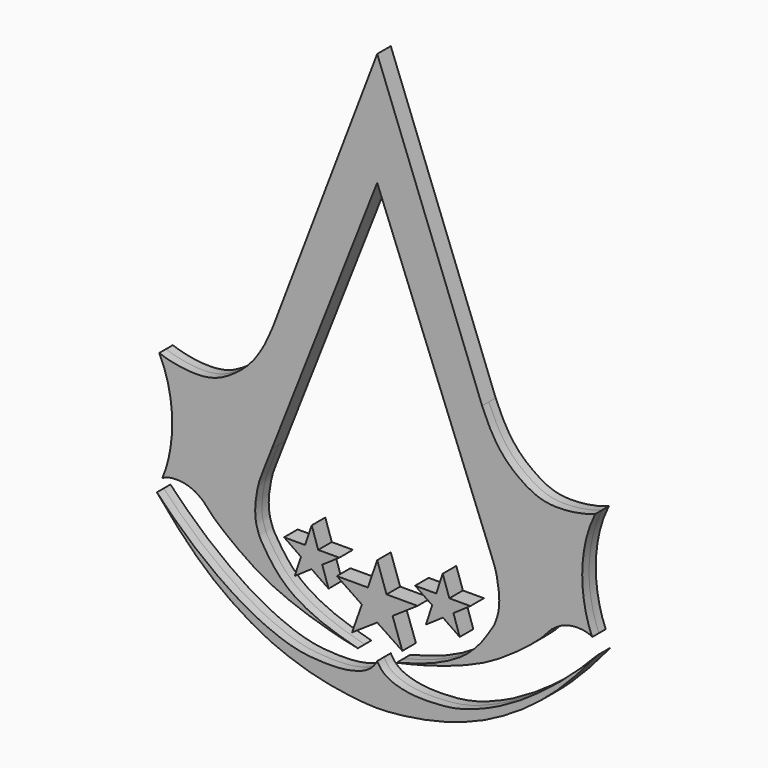
from build123d import *

# Parameters (mm, degrees)
F1_DEPTH = 3.175


with BuildPart() as f1:
    # F0 (on Front) → F1 (new body, symmetric)
    with BuildSketch(Plane.XZ):
        with BuildLine():
            Line((39.9687946774, -25.0338315964), (0.7381376345, 78.0851691961))
            Line((0.7381376345, 78.0851691961), (-38.4925194085, -25.0338315964))
            add(Edge.make_bspline(
                [(-38.4925194085, -25.0338315964), (-39.2622438136, -26.885693292), (-40.9775181091, -31.0140391363), (-46.1401856066, -39.3534698401), (-52.7725182932, -44.7632011156), (-60.2226886845, -49.2057896242), (-70.1957220918, -49.6474830663), (-77.698007226, -48.0404756963), (-80.7956382632, -46.8992441893)],
                knots=[0, 0, 0, 0, 0.1413466486, 0.3151299012, 0.4791434265, 0.6404274645, 0.8158665758, 1, 1, 1, 1], degree=3))
            add(Edge.make_bspline(
                [(-80.7956382632, -46.8992441893), (-77.9950395226, -52.5300353765), (-75.7914310275, -62.3368572194), (-75.8388918267, -74.7012366543), (-77.8207480907, -83.5148692131), (-79.6517729759, -87.7740681171)],
                knots=[0, 0, 0, 0, 0.3617583359, 0.6716647358, 1, 1, 1, 1], degree=3))
            add(Edge.make_bspline(
                [(-79.6517729759, -87.7740681171), (-78.1548172235, -86.7131128907), (-74.3145144485, -86.2863424344), (-71.1093442924, -86.6556991971), (-67.7305673247, -87.8539041816), (-66.4333637502, -88.6644110329), (-64.4124224782, -90.205706656)],
                knots=[0, 0, 0, 0, 0.2916973, 0.5200285197, 0.7365038379, 1, 1, 1, 1], degree=3))
            add(Edge.make_bspline(
                [(-64.4124224782, -90.205706656), (-62.4826510373, -92.1121079037), (-61.2514328577, -94.013789328), (-54.8457970799, -99.2391842343), (-51.6384381045, -101.6236163483), (-44.5204401501, -106.6470567455), (-36.5899833751, -110.8361942933), (-26.661804791, -114.6171083357), (-20.746394532, -116.4445402662), (-17.8452860564, -117.2363311052)],
                knots=[0, 0, 0, 0, 0.1217160192, 0.2620413858, 0.3692054576, 0.5177682594, 0.6756370159, 0.8433116054, 1, 1, 1, 1], degree=3))
            add(Edge.make_bspline(
                [(-17.8452860564, -117.2363311052), (-16.4756061942, -117.6109241665), (-13.6201845046, -118.3926584207), (-8.4286970741, -119.6183960782), (-7.0341565598, -119.8895662016), (-6.5196868964, -119.9872270226)],
                knots=[0, 0, 0, 0, 0.367623301, 0.7649594129, 1, 1, 1, 1], degree=3))
            add(Edge.make_bspline(
                [(-6.5196868964, -119.9872270226), (-9.0960370311, -119.3454346901), (-13.6559510686, -117.9795631396), (-18.9430526959, -116.2610098943), (-23.8160123711, -114.1409101783), (-26.7252239571, -112.6143336372), (-31.3459121918, -109.9178411742), (-35.4807275384, -106.2851369545), (-39.059697463, -102.1162433168), (-41.9916822229, -97.3025925275), (-43.3266290008, -95.4101249714), (-44.6302619958, -91.2178104187), (-44.8734993648, -88.6737352491), (-45.0182427776, -85.1887257157), (-43.8950228491, -78.221591268), (-42.5778576549, -74.6758898345), (-40.1668258417, -68.5360203085), (-38.6665537953, -64.7154673934)],
                knots=[0, 0, 0, 0, 0.081678557, 0.152630995, 0.2201463571, 0.2745351402, 0.3426458253, 0.4130341972, 0.4842535085, 0.5537203801, 0.6002505848, 0.6612727143, 0.7090627088, 0.764850412, 0.8428206063, 0.9021830686, 1, 1, 1, 1], degree=3))
            Line((-38.6665537953, -64.7154673934), (0.7282412844, 35.6770381331))
            Line((0.7282412844, 35.6770381331), (40.1428290643, -64.7154673934))
            add(Edge.make_bspline(
                [(7.9959621653, -119.9872270226), (10.5723123, -119.3454346901), (15.1322263375, -117.9795631396), (20.4193279649, -116.2610098943), (25.2922876401, -114.1409101783), (28.201499226, -112.6143336372), (32.8221874607, -109.9178411742), (36.9570028074, -106.2851369545), (40.535972732, -102.1162433168), (43.4679574918, -97.3025925275), (44.8029042697, -95.4101249714), (46.1065372647, -91.2178104187), (46.3497746337, -88.6737352491), (46.4945180466, -85.1887257157), (45.3712981181, -78.221591268), (44.0541329238, -74.6758898345), (41.6431011107, -68.5360203085), (40.1428290643, -64.7154673934)],
                knots=[0, 0, 0, 0, 0.081678557, 0.152630995, 0.2201463571, 0.2745351402, 0.3426458253, 0.4130341972, 0.4842535085, 0.5537203801, 0.6002505848, 0.6612727143, 0.7090627088, 0.764850412, 0.8428206063, 0.9021830686, 1, 1, 1, 1], degree=3))
            add(Edge.make_bspline(
                [(19.3215613253, -117.2363311052), (17.9518814631, -117.6109241665), (15.0964597735, -118.3926584207), (9.9049723431, -119.6183960782), (8.5104318287, -119.8895662016), (7.9959621653, -119.9872270226)],
                knots=[0, 0, 0, 0, 0.367623301, 0.7649594129, 1, 1, 1, 1], degree=3))
            add(Edge.make_bspline(
                [(65.8886977471, -90.205706656), (63.9589263063, -92.1121079037), (62.7277081266, -94.013789328), (56.3220723488, -99.2391842343), (53.1147133735, -101.6236163483), (45.9967154191, -106.6470567455), (38.066258644, -110.8361942933), (28.1380800599, -114.6171083357), (22.222669801, -116.4445402662), (19.3215613253, -117.2363311052)],
                knots=[0, 0, 0, 0, 0.1217160192, 0.2620413858, 0.3692054576, 0.5177682594, 0.6756370159, 0.8433116054, 1, 1, 1, 1], degree=3))
            add(Edge.make_bspline(
                [(81.1280482449, -87.7740681171), (79.6310924925, -86.7131128907), (75.7907897175, -86.2863424344), (72.5856195613, -86.6556991971), (69.2068425936, -87.8539041816), (67.9096390191, -88.6644110329), (65.8886977471, -90.205706656)],
                knots=[0, 0, 0, 0, 0.2916973, 0.5200285197, 0.7365038379, 1, 1, 1, 1], degree=3))
            add(Edge.make_bspline(
                [(82.2719135322, -46.8992441893), (79.4713147916, -52.5300353765), (77.2677062965, -62.3368572194), (77.3151670956, -74.7012366543), (79.2970233597, -83.5148692131), (81.1280482449, -87.7740681171)],
                knots=[0, 0, 0, 0, 0.3617583359, 0.6716647358, 1, 1, 1, 1], degree=3))
            add(Edge.make_bspline(
                [(39.9687946774, -25.0338315964), (40.7385190825, -26.885693292), (42.4537933781, -31.0140391363), (47.6164608756, -39.3534698401), (54.2487935622, -44.7632011156), (61.6989639534, -49.2057896242), (71.6719973608, -49.6474830663), (79.1742824949, -48.0404756963), (82.2719135322, -46.8992441893)],
                knots=[0, 0, 0, 0, 0.1413466486, 0.3151299012, 0.4791434265, 0.6404274645, 0.8158665758, 1, 1, 1, 1], degree=3))
        make_face()
    extrude(amount=F1_DEPTH, both=True)


with BuildPart() as f1b:
    # F0 (on Front) → F1, piece 2 (new body, symmetric)
    with BuildSketch(Plane.XZ):
        Polygon((-23.7579756867, -85.0893280041), (-26.2374132872, -92.389754951), (-34.0955592692, -92.389754951), (-27.7667343616, -96.756733954), (-30.1253069192, -103.8554906845), (-23.8401331007, -99.5251610875), (-17.4559801817, -103.9049848914), (-19.8314785957, -96.756733954), (-13.4277269244, -92.389754951), (-21.3319063187, -92.389754951), align=None)
    extrude(amount=F1_DEPTH, both=True)


with BuildPart() as f1c:
    # F0 (on Front) → F1, piece 3 (new body, symmetric)
    with BuildSketch(Plane.XZ):
        Polygon((4.2331188133, -98.7430289388), (0.7381376345, -88.5976701975), (-2.7568435443, -98.7430289388), (-14.3527910113, -98.7430289388), (-4.9992650747, -105.0776913762), (-8.6614917964, -115.421012044), (0.7381376345, -109.1358363628), (10.1377670653, -115.421012044), (6.4755403437, -105.0776913762), (15.8290662803, -98.7430289388), align=None)
    extrude(amount=F1_DEPTH, both=True)


with BuildPart() as f1d:
    # F0 (on Front) → F1, piece 4 (new body, symmetric)
    with BuildSketch(Plane.XZ):
        Polygon((18.9322554506, -103.9049848914), (25.3164083697, -99.5251610875), (31.6015821882, -103.8554906845), (29.2430096306, -96.756733954), (35.5718345381, -92.389754951), (27.7136885561, -92.389754951), (25.2342509556, -85.0893280041), (22.8081815876, -92.389754951), (14.9040021934, -92.389754951), (21.3077538647, -96.756733954), align=None)
    extrude(amount=F1_DEPTH, both=True)


with BuildPart() as f1e:
    # F0 (on Front) → F1, piece 5 (new body, symmetric)
    with BuildSketch(Plane.XZ):
        with BuildLine():
            add(Edge.make_bspline(
                [(0.7381376345, -121.8063905835), (2.5732585083, -125.5218472258), (8.7783461259, -128.0447754649), (16.6224466735, -129.0831735095), (28.4495500896, -128.6147312583), (37.2381387237, -126.0096703428), (44.9708486634, -122.6080149829), (47.2814659271, -121.3684392762), (52.82753923, -118.3007022886), (57.5644750365, -115.1901899115), (62.5809036294, -111.6353623409), (68.9428745124, -106.6607531018), (74.7331129968, -101.4971541662), (79.5479294545, -96.8171843453), (82.0195015598, -94.2450269765), (83.1555225886, -93.0624902248)],
                knots=[0, 0, 0, 0, 0.0906082666, 0.1718260648, 0.2693795532, 0.3592348873, 0.4399791175, 0.4872315343, 0.5578109191, 0.6274212815, 0.6982023088, 0.7799701207, 0.8607919684, 0.9350271053, 1, 1, 1, 1], degree=3))
            add(Edge.make_bspline(
                [(0.7381376345, -121.8063905835), (-1.0969832393, -125.5218472258), (-7.302070857, -128.0447754649), (-15.1461714046, -129.0831735095), (-26.9732748207, -128.6147312583), (-35.7618634547, -126.0096703428), (-43.4945733945, -122.6080149829), (-45.8051906582, -121.3684392762), (-51.3512639611, -118.3007022886), (-56.0881997675, -115.1901899115), (-61.1046283604, -111.6353623409), (-67.4665992434, -106.6607531018), (-73.2568377278, -101.4971541662), (-78.0716541856, -96.8171843453), (-80.5432262908, -94.2450269765), (-81.6792473197, -93.0624902248)],
                knots=[0, 0, 0, 0, 0.0906082666, 0.1718260648, 0.2693795532, 0.3592348873, 0.4399791175, 0.4872315343, 0.5578109191, 0.6274212815, 0.6982023088, 0.7799701207, 0.8607919684, 0.9350271053, 1, 1, 1, 1], degree=3))
            add(Edge.make_bspline(
                [(-81.6792473197, -93.0624902248), (-81.2818542414, -93.574208045), (-80.3045231387, -94.8247626349), (-77.2223676495, -98.2797575168), (-72.4092068153, -103.8015860549), (-64.3546052838, -111.9136094699), (-55.6620800344, -118.7052407673), (-48.9340563341, -123.1226568537), (-42.2533220006, -126.8804617786), (-36.6927370275, -129.5048061986), (-30.1165151817, -131.9252032012), (-24.0190981791, -133.8843212026), (-16.4322838719, -135.5462845771), (-10.5506336142, -136.5267732053), (-3.1540963255, -137.2664516489), (-0.4130623133, -137.3240724808), (0.7381376345, -137.348279357)],
                knots=[0, 0, 0, 0, 0.0402098466, 0.0983632156, 0.1735738892, 0.2677961671, 0.3600386462, 0.4385760386, 0.5142006112, 0.5830136758, 0.6553601784, 0.7261359554, 0.8022228888, 0.871338551, 0.9460023462, 1, 1, 1, 1], degree=3))
            add(Edge.make_bspline(
                [(83.1555225886, -93.0624902248), (82.7581295103, -93.574208045), (81.7807984076, -94.8247626349), (78.6986429184, -98.2797575168), (73.8854820842, -103.8015860549), (65.8308805527, -111.9136094699), (57.1383553033, -118.7052407673), (50.410331603, -123.1226568537), (43.7295972696, -126.8804617786), (38.1690122965, -129.5048061986), (31.5927904507, -131.9252032012), (25.4953734481, -133.8843212026), (17.9085591409, -135.5462845771), (12.0269088832, -136.5267732053), (4.6303715944, -137.2664516489), (1.8893375822, -137.3240724808), (0.7381376345, -137.348279357)],
                knots=[0, 0, 0, 0, 0.0402098466, 0.0983632156, 0.1735738892, 0.2677961671, 0.3600386462, 0.4385760386, 0.5142006112, 0.5830136758, 0.6553601784, 0.7261359554, 0.8022228888, 0.871338551, 0.9460023462, 1, 1, 1, 1], degree=3))
        make_face()
    extrude(amount=F1_DEPTH, both=True)


solid = Compound([f1.part, f1b.part, f1c.part, f1d.part, f1e.part])
